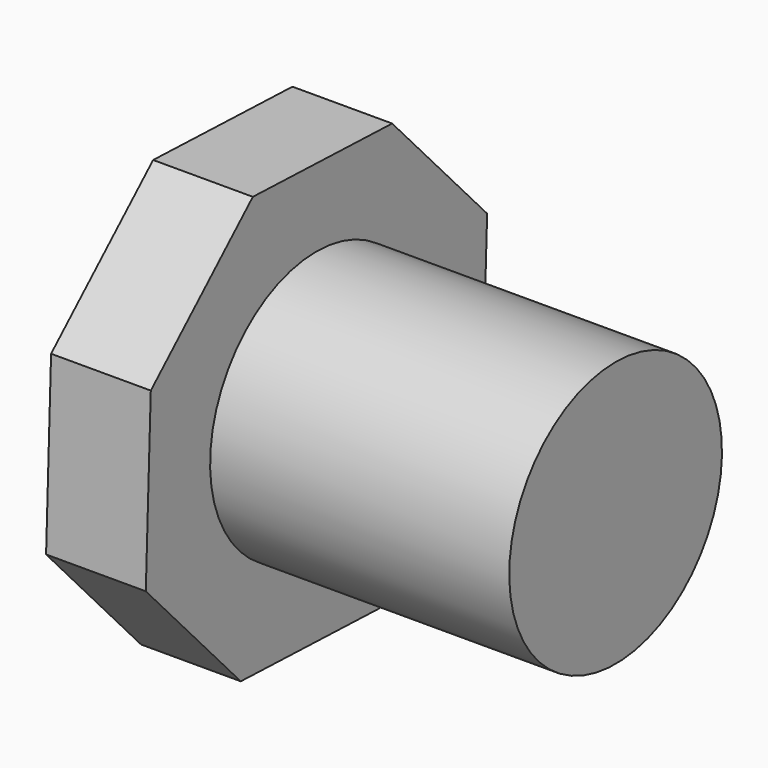
from build123d import *

# Parameters (mm, degrees)
F0_W     = 45
F0_H     = 20
F2_R     = 40
F3_DEPTH = 25


with BuildPart() as f1:
    # F0 (on Front) → F1 (revolve)
    with BuildSketch(Plane.XZ):
        with Locations((22.5, 10)):
            Rectangle(F0_W, F0_H)
        Polygon((-15, 0), (0, 0), (0, 20), (0, 40), (-15, 40), align=None)
    revolve(axis=Axis((5.521053, 0, 0), (1, 0, 0)))

    # F2 (on face) → F3 (cut)
    with BuildSketch(Plane(origin=(-15, 0, 0), x_dir=(0, -1, 0), z_dir=(-1, 0, 0))):
        Circle(F2_R)
        Polygon((-14.232044, 31.152177), (11.964341, 32.09149), (31.152177, 14.232044), (32.09149, -11.964341), (14.232044, -31.152177), (-11.964341, -32.09149), (-31.152177, -14.232044), (-32.09149, 11.964341), align=None, mode=Mode.SUBTRACT)
    extrude(amount=-F3_DEPTH, mode=Mode.SUBTRACT)


solid = f1.part
